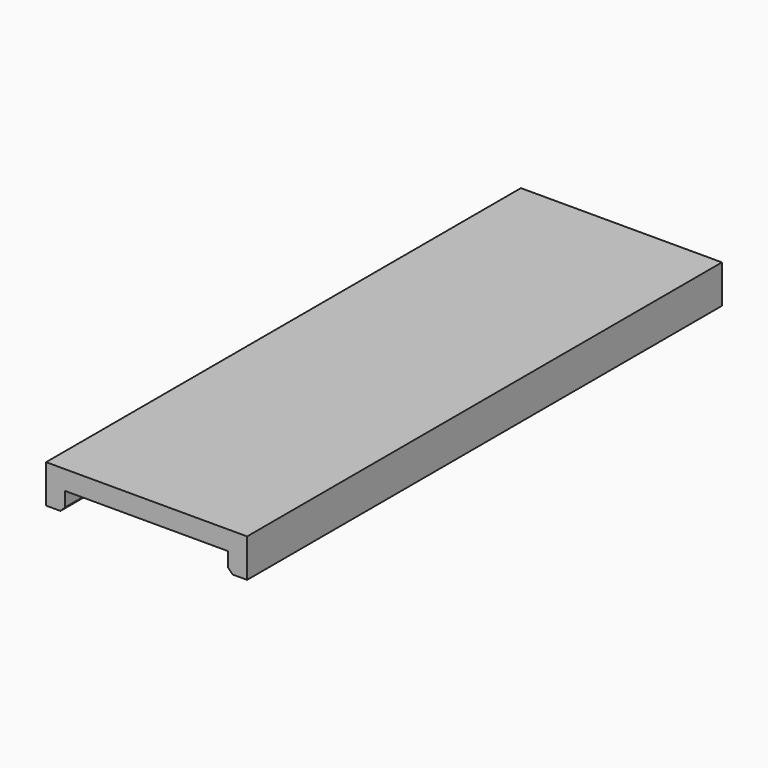
from build123d import *

# Parameters (mm, degrees)
F0_W     = 2
F0_H     = 62
F0_W_2   = 17
F0_W_3   = 14.6
F0_H_2   = 15
F1_DEPTH = 2
F2_DEPTH = 5
F3_DEPTH = 2
F4_SIZE  = 0.5


with BuildPart() as f1:
    # F0 (on Top) → F1 (new body)
    with BuildSketch(Plane.XY):
        with Locations((1, -31)):
            Rectangle(F0_W, F0_H)
        with Locations((10.5, -31)):
            Rectangle(F0_W_2, F0_H)
        with Locations((10.5, -32.5)):
            Rectangle(F0_W_3, F0_H_2, mode=Mode.SUBTRACT)
        with Locations((20, -31)):
            Rectangle(F0_W, F0_H)
        with Locations((10.5, -32.5)):
            Rectangle(F0_W_3, F0_H_2)
    extrude(amount=F1_DEPTH)

    # F0 (on Top) → F2 (join)
    with BuildSketch(Plane.XY):
        with Locations((10.5, -32.5)):
            Rectangle(F0_W_3, F0_H_2)
    extrude(amount=-F2_DEPTH)

    # F0 (on Top) → F3 (join)
    with BuildSketch(Plane.XY):
        with Locations((1, -31)):
            Rectangle(F0_W, F0_H)
        with Locations((20, -31)):
            Rectangle(F0_W, F0_H)
    extrude(amount=-F3_DEPTH)

    # F4
    f4_edges = [f1.edges().sort_by_distance(p)[0] for p in [
        (2, -31, -2),
        (19, -31, -2),
        (3.2, -32.5, -5),
        (17.8, -32.5, -5),
    ]]
    chamfer(f4_edges, length=F4_SIZE)


solid = f1.part
